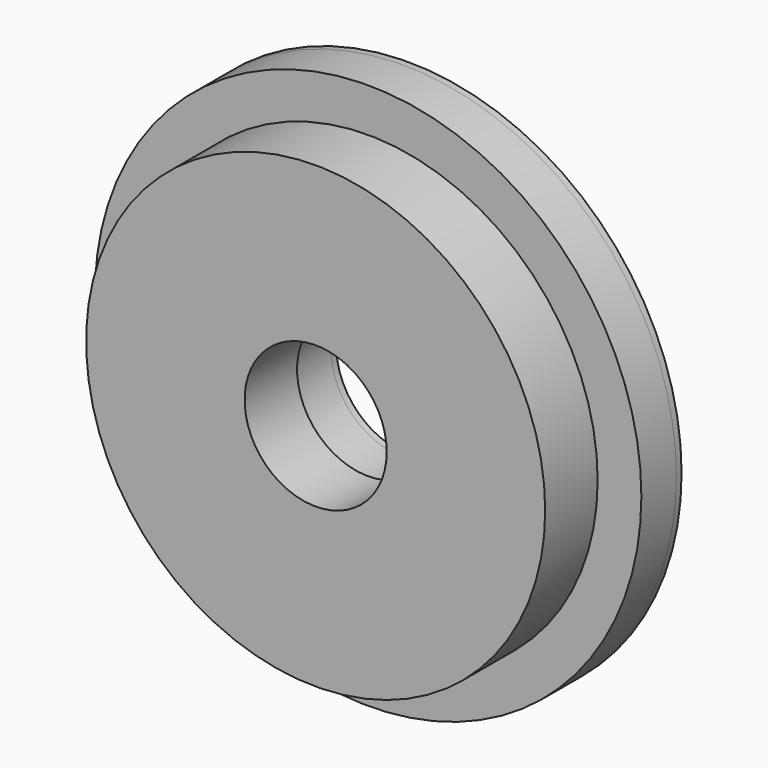
from build123d import *

# Parameters (mm, degrees)
F0_R     = 105
F0_R_2   = 32.5
F1_DEPTH = 30
F3_R     = 125
F3_R_2   = 33
F4_DEPTH = 20
F5_DEPTH = 3


with BuildPart() as f1:
    # F0 (on Front) → F1 (new body)
    with BuildSketch(Plane.XZ):
        Circle(F0_R)
        Circle(F0_R_2, mode=Mode.SUBTRACT)
    extrude(amount=F1_DEPTH)


with BuildPart() as f4:
    # F3 (on offset) → F4 (new body)
    with BuildSketch(Plane(origin=(0, 20, 0), x_dir=(1, 0, 0), z_dir=(0, 1, 0))):
        Circle(F3_R)
        Circle(F3_R_2, mode=Mode.SUBTRACT)
    extrude(amount=-F4_DEPTH)


with BuildPart() as f5:
    # F3 (on offset) → F5 (new body)
    with BuildSketch(Plane(origin=(0, 20, 0), x_dir=(1, 0, 0), z_dir=(0, 1, 0))):
        Circle(F3_R)
        Circle(F3_R_2, mode=Mode.SUBTRACT)
    extrude(amount=F5_DEPTH)


solid = Compound([f1.part, f4.part, f5.part])
